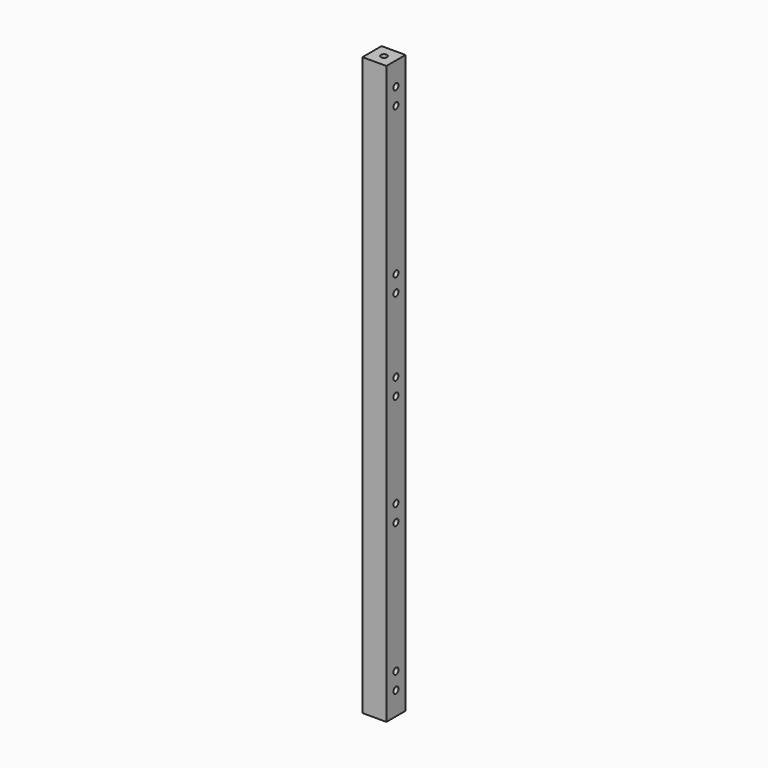
from build123d import *

# Parameters (mm, degrees)
SKETCH_W     = 11.4
SKETCH_H     = 11.4
SKETCH_R     = 1.5
PAD_DEPTH    = 275.2
SKETCH001_R  = 1.5
POCKET_DEPTH = 11.401


with BuildPart() as part:
    # Sketch → Pad (new body)
    with BuildSketch(Plane.XY):
        with Locations((5.7, 5.7)):
            Rectangle(SKETCH_W, SKETCH_H)
        with Locations((5.7, 5.7)):
            Circle(SKETCH_R, mode=Mode.SUBTRACT)
    extrude(amount=PAD_DEPTH)

    # Sketch001 → Pocket (cut, through all)
    with BuildSketch(Plane.YZ.offset(11.4)):
        with Locations((5.7, 142.35)):
            Circle(SKETCH001_R)
        with Locations((5.7, 134.35)):
            Circle(SKETCH001_R)
        with Locations((5.7, 19)):
            Circle(SKETCH001_R)
        with Locations((5.7, 11)):
            Circle(SKETCH001_R)
        with Locations((5.7, 89.35)):
            Circle(SKETCH001_R)
        with Locations((5.7, 81.35)):
            Circle(SKETCH001_R)
        with Locations((5.7, 185.65)):
            Circle(SKETCH001_R)
        with Locations((5.7, 177.65)):
            Circle(SKETCH001_R)
        with Locations((5.7, 264.2)):
            Circle(SKETCH001_R)
        with Locations((5.7, 256.2)):
            Circle(SKETCH001_R)
    extrude(amount=-POCKET_DEPTH, mode=Mode.SUBTRACT)


solid = part.part
